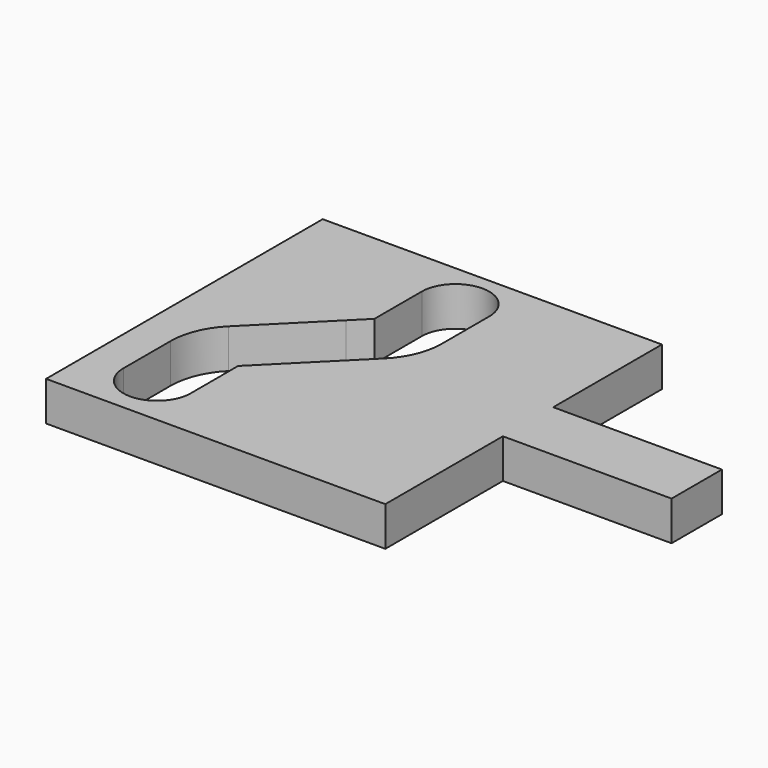
from build123d import *

# Parameters (mm, degrees)
F1_DEPTH = 8.89


with BuildPart() as f1:
    # F0 (on Top) → F1 (new body)
    with BuildSketch(Plane.XY):
        Polygon((38.373657, 41.128395), (-10.907251, 41.128395), (-38.281802, 41.128395), (-38.281802, 4.189338), (-38.281802, -37.003323), (38.373657, -37.003323), (38.373657, -3.794326), (76.488459, -3.794326), (76.488459, 3.317674), (76.488459, 10.429674), (38.373657, 10.429674), align=None)
        with BuildLine():
            Line((-16.520221, 7.932111), (-10.907251, 13.545081))
            Line((-10.907251, 13.545081), (-7.36036, 17.091973))
            Line((-7.36036, 17.091973), (-7.36036, 30.459993))
            ThreePointArc((-7.36036, 30.459993), (0.25965, 38.079973), (7.87964, 30.459973))
            Line((7.87964, 30.459973), (7.87964, 17.091973))
            ThreePointArc((7.87964, 17.091973), (6.719564, 11.259877), (3.415948, 6.315665))
            Line((3.415948, 6.315665), (-5.739092, -2.839375))
            Line((-5.739092, -2.839375), (-14.898953, -11.999236))
            Line((-14.898953, -11.999236), (-14.898953, -25.367236))
            ThreePointArc((-14.898953, -25.367236), (-22.518953, -32.987236), (-30.138953, -25.367236))
            Line((-30.138953, -25.367236), (-30.138953, -11.999235))
            ThreePointArc((-30.138953, -11.999235), (-28.978877, -6.16714), (-25.67526, -1.222928))
            Line((-25.67526, -1.222928), (-16.520221, 7.932111))
        make_face(mode=Mode.SUBTRACT)
    extrude(amount=F1_DEPTH)


solid = f1.part
